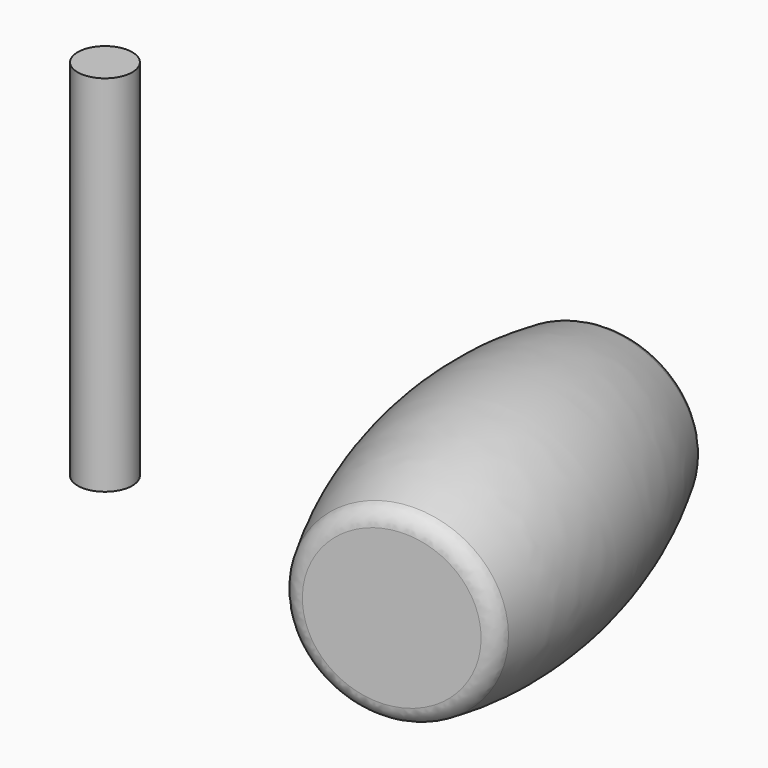
from build123d import *

# Parameters (mm, degrees)
F0_R     = 7.5
F1_DEPTH = 100
F2_R     = 7.5
F6_DEPTH = 5
F7_R     = 5


with BuildPart() as f1:
    # F0 (on Top) → F1 (new body)
    with BuildSketch(Plane.XY):
        with Locations((-56.5062947127, 2.0060208651)):
            Circle(F0_R)
    extrude(amount=F1_DEPTH)


with BuildPart() as f5:
    # F4 (on line) → F5 (revolve)
    with BuildSketch(Plane(origin=(55.7920094518, 12.6015113593, 0), x_dir=(-0.2203160277, 0.9754285458, 0), z_dir=(0.9754285458, 0.2203160277, 0))):
        with BuildLine():
            Line((-74.9648162349, 32.8749385259), (-74.9648162349, 7.8749385259))
            ThreePointArc((-74.9648162349, 7.8749385259), (-24.9648162349, 0), (25.0351837651, 7.8749385259))
            Line((25.0351837651, 7.8749385259), (25.0351837651, 32.8749385259))
            Line((25.0351837651, 32.8749385259), (-74.9648162349, 32.8749385259))
        make_face()
    revolve(axis=Axis((61.292158597, -11.7498830366, 32.8749385259), (0.2203160277, -0.9754285458, 0)))

    # F2 (on Top) → F6 (cut)
    with BuildSketch(Plane.XY):
        with Locations((61.292158597, -11.7498830366)):
            Circle(F2_R)
    extrude(amount=F6_DEPTH, mode=Mode.SUBTRACT)

    # F7
    f7_edges = [f5.edges().sort_by_distance(p)[0] for p in [
        (72.30796, -60.52131, 57.874939),
        (50.276357, 37.021544, 57.874939),
    ]]
    fillet(f7_edges, radius=F7_R)


solid = Compound([f1.part, f5.part])
